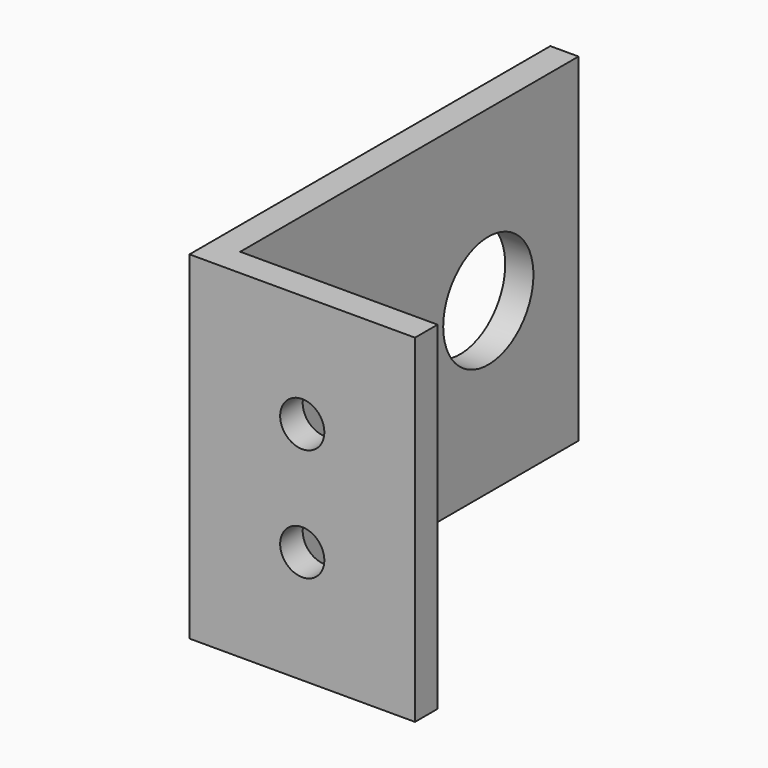
from build123d import *

# Parameters (mm, degrees)
F1_DEPTH = 38.1
F2_R     = 2.4892
F3_DEPTH = 50.801
F4_R     = 6.35
F5_DEPTH = 25.401


with BuildPart() as f1:
    # F0 (on Top) → F1 (new body)
    with BuildSketch(Plane.XY):
        Polygon((3.175, 50.8), (0, 50.8), (0, 0), (25.4, 0), (25.4, 3.175), (3.175, 3.175), align=None)
    extrude(amount=F1_DEPTH)

    # F2 (on face) → F3 (cut, through all)
    with BuildSketch(Plane.XZ):
        with Locations((12.7, 25.4)):
            Circle(F2_R)
        with Locations((12.7, 12.7)):
            Circle(F2_R)
    extrude(amount=-F3_DEPTH, mode=Mode.SUBTRACT)

    # F4 (on face) → F5 (cut, through all)
    with BuildSketch(Plane(origin=(0, 0, 0), x_dir=(0, -1, 0), z_dir=(-1, 0, 0))):
        with Locations((-38.1, 19.05)):
            Circle(F4_R)
    extrude(amount=-F5_DEPTH, mode=Mode.SUBTRACT)


solid = f1.part
